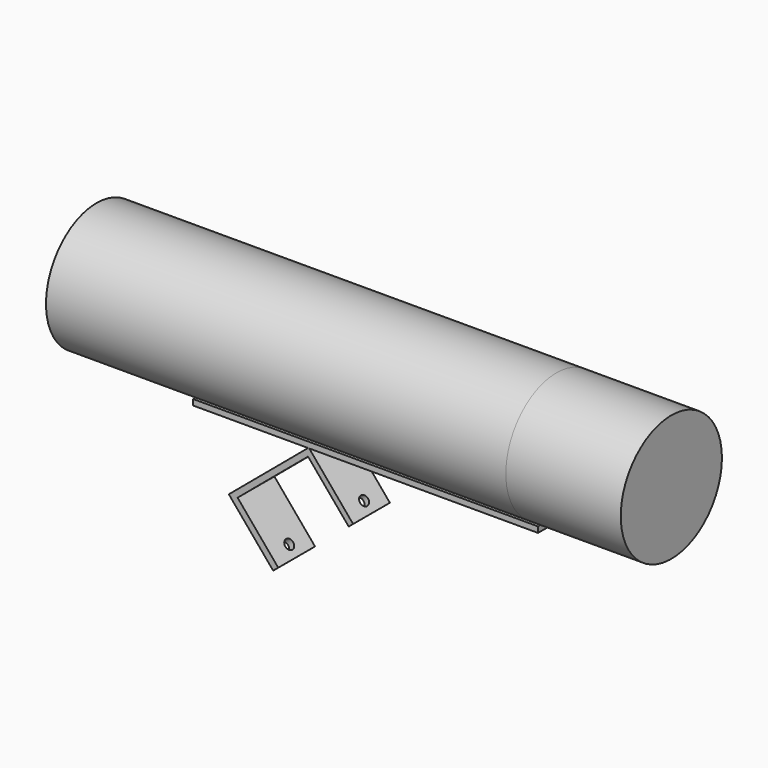
from build123d import *

# Parameters (mm, degrees)
F1_DEPTH      = 40
F4_D          = 8.5
F4_DEPTH      = 100
F4_TIP        = 2.5536576309
F5_R          = 55
F6_DEPTH      = 100
F6_DEPTH_BACK = 400
F7_R          = 52.5
F8_DEPTH      = 480
F9_D          = 8.5
F9_DEPTH      = 30
F9_TIP        = 2.5536576309
F10_D         = 8.5
F10_DEPTH     = 30
F10_TIP       = 2.5536576309


with BuildPart() as f1:
    # F0 (on Front) → F1 (new body)
    with BuildSketch(Plane.XZ):
        Polygon((-199, 0), (0, 0), (0, 5), (-300, 5), (-300, 0), (-200, 0), (-268.9439998807, -57.8508848718), (-230.3767432995, -103.8135514589), (-225.9596969951, -100.107209534), (-261.3130155278, -57.9747651624), (-200.0294600783, -6.5517563875), (-164.6761415456, -48.6842007591), (-160.84591933, -45.4702627106), align=None)
    extrude(amount=F1_DEPTH)

    # F4
    with Locations(Plane(origin=(-186.3088176474, 0, -156.331660173), x_dir=(0, -1, 0), z_dir=(-0.7660444431, 0, -0.6427876097))):
        with Locations((20, 78.5575219373)):
            Hole(F4_D / 2, depth=F4_DEPTH)
            with Locations((0, 0, -(F4_DEPTH + F4_TIP / 2))):  # 118° drill point
                Cone(0, F4_D / 2, F4_TIP, mode=Mode.SUBTRACT)

    # F5 (on Right) → F6 (join, two sides)
    with BuildSketch(Plane.YZ) as f6_sk:
        with Locations((-20, 59.5)):
            Circle(F5_R)
    extrude(amount=F6_DEPTH)
    extrude(f6_sk.sketch, amount=-F6_DEPTH_BACK)

    # F7 (on face) → F8 (cut)
    with BuildSketch(Plane(origin=(-400, 0, 0), x_dir=(0, -1, 0), z_dir=(-1, 0, 0))):
        with Locations((20, 59.5)):
            Circle(F7_R)
    extrude(amount=-F8_DEPTH, mode=Mode.SUBTRACT)

    # F9 (one way)
    with BuildSketch(Plane.XY.offset(5)):
        with Locations((-280, -20), (-20, -20)):
            Circle(F9_D / 2)
    extrude(amount=-F9_DEPTH, mode=Mode.SUBTRACT)
    with Locations(Plane.XY.offset(5)):
        with Locations((-280, -20), (-20, -20)):
            with Locations((0, 0, -(F9_DEPTH + F9_TIP / 2))):  # 118° drill point
                Cone(0, F9_D / 2, F9_TIP, mode=Mode.SUBTRACT)

    # F10
    with Locations(Plane(origin=(0, 0, 5), x_dir=(1, 0, 0), z_dir=(0, 0, -1))):
        with Locations((-280, 20), (-20, 20)):
            Hole(F10_D / 2, depth=F10_DEPTH)
            with Locations((0, 0, -(F10_DEPTH + F10_TIP / 2))):  # 118° drill point
                Cone(0, F10_D / 2, F10_TIP, mode=Mode.SUBTRACT)


solid = f1.part
